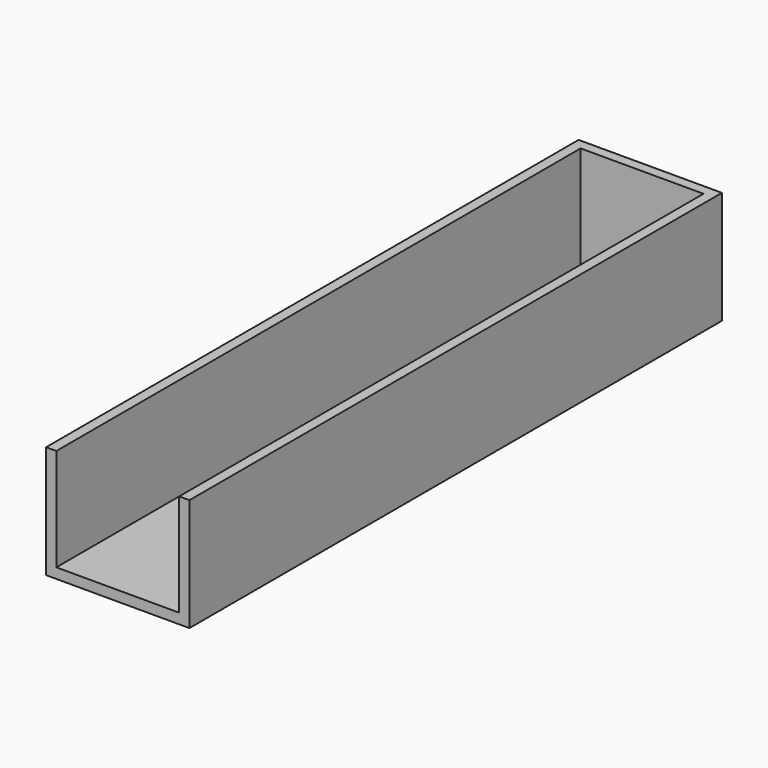
from build123d import *

# Parameters (mm, degrees)
F1_W     = 14
F1_H     = 65
F1_W_2   = 12
F1_H_2   = 23
F2_DEPTH = 1
F4_DEPTH = 10


with BuildPart() as f2:
    # F1 (on Top) → F2 (new body)
    with BuildSketch(Plane.XY):
        with Locations((7, -32.5)):
            Rectangle(F1_W, F1_H)
        with Locations((7, -17.5)):
            Rectangle(F1_W_2, F1_H_2, mode=Mode.SUBTRACT)
    extrude(amount=F2_DEPTH)

    # F3 (on face) → F4 (join)
    with BuildSketch(Plane.XY.offset(1)):
        Polygon((0, 0), (0, -65), (1, -65), (1, -29), (1, -6), (1, -1), (13, -1), (13, -6), (13, -29), (13, -65), (14, -65), (14, 0), align=None)
    extrude(amount=F4_DEPTH)


solid = f2.part
